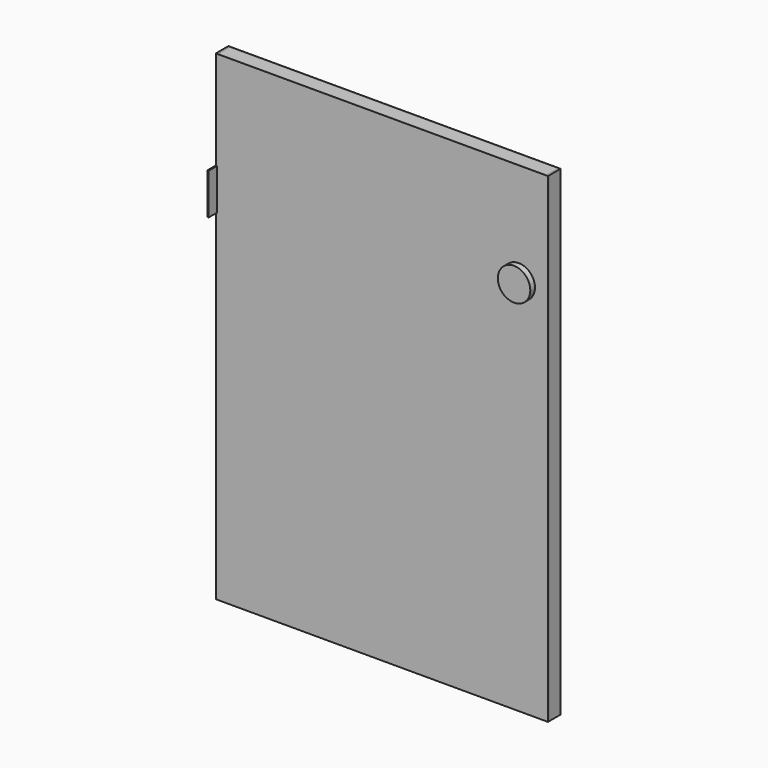
from build123d import *

# Parameters (mm, degrees)
F0_W      = 909
F0_H      = 1315
F1_DEPTH  = 43.25
F2_DEPTH  = 2.81
F3_DEPTH  = 2.81
F5_DEPTH  = 43.251
F6_W      = 3.3626373626
F6_H      = 112.7066911446
F7_DEPTH  = 43.251
F8_R      = 44.43
F9_DEPTH  = 16
F10_R     = 44.43
F11_DEPTH = 16
F12_W     = 3.3626373626
F12_H     = 112.7066911446
F13_DEPTH = 28.82
F14_W     = 5
F14_H     = 37.63
F15_DEPTH = 1315


with BuildPart() as f1:
    # F0 (on Front) → F1 (new body)
    with BuildSketch(Plane.XZ):
        Rectangle(F0_W, F0_H)
    extrude(amount=F1_DEPTH)


with BuildPart() as f2:
    # F2 (new): a face of the model
    f2_faces = [f1.part.faces().sort_by_distance(p)[0] for p in [
        (0, -43.25, 0),
    ]]
    extrude(f2_faces, amount=-F2_DEPTH)


with BuildPart() as f3:
    # F3 (new): a face of the model
    f3_faces = [f1.part.faces().sort_by_distance(p)[0] for p in [
        (0, 0, 0),
    ]]
    extrude(f3_faces, amount=-F3_DEPTH)


with BuildPart() as f5_tool:
    # F4 (on face) → F5 (new body, through all)
    with BuildSketch(Plane.XZ.offset(43.25)):
        with BuildLine():
            ThreePointArc((418.93, 377.5), (415.9698036577, 393.4461683357), (407.4836671352, 407.2674755784))
            Line((407.4836671352, 407.2674755784), (407.4836671352, 377.5))
            Line((407.4836671352, 377.5), (418.93, 377.5))
        make_face()
        with BuildLine():
            Line((407.4836671352, 377.5), (407.4836671352, 407.2674755784))
            ThreePointArc((407.4836671352, 407.2674755784), (333.0301963423, 361.5538316643), (418.93, 377.5))
            Line((418.93, 377.5), (407.4836671352, 377.5))
        make_face()
    extrude(amount=-F5_DEPTH)


with BuildPart() as f1_1:
    add(f1.part)

    # F5: cut by f5_tool
    add(f5_tool.part, mode=Mode.SUBTRACT)


with BuildPart() as f2_1:
    add(f2.part)

    # F5: cut by f5_tool
    add(f5_tool.part, mode=Mode.SUBTRACT)


with BuildPart() as f3_1:
    add(f3.part)

    # F5: cut by f5_tool
    add(f5_tool.part, mode=Mode.SUBTRACT)


with BuildPart() as f7_tool:
    # F6 (on face) → F7 (new body, through all)
    with BuildSketch(Plane(origin=(0, 0, 0), x_dir=(-1, 0, 0), z_dir=(0, 1, 0))):
        with Locations((452.8186813187, 331.1466544277)):
            Rectangle(F6_W, F6_H)
    extrude(amount=-F7_DEPTH)


with BuildPart() as f1_2:
    add(f1_1.part)

    # F7: cut by f7_tool
    add(f7_tool.part, mode=Mode.SUBTRACT)


with BuildPart() as f2_2:
    add(f2_1.part)

    # F7: cut by f7_tool
    add(f7_tool.part, mode=Mode.SUBTRACT)


with BuildPart() as f3_2:
    add(f3_1.part)

    # F7: cut by f7_tool
    add(f7_tool.part, mode=Mode.SUBTRACT)


with BuildPart() as f9:
    # F8 (on face) → F9 (new body)
    with BuildSketch(Plane.XZ.offset(43.25)):
        with Locations((374.5, 377.5)):
            Circle(F8_R)
    extrude(amount=F9_DEPTH)


with BuildPart() as f11:
    # F10 (on face) → F11 (new body)
    with BuildSketch(Plane(origin=(0, 0, 0), x_dir=(-1, 0, 0), z_dir=(0, 1, 0))):
        with Locations((-374.5, 377.5)):
            Circle(F10_R)
    extrude(amount=F11_DEPTH)


with BuildPart() as f13:
    # F12 (on face) → F13 (new body)
    with BuildSketch(Plane.XZ.offset(43.25)):
        with Locations((-452.8186813187, 331.1466544277)):
            Rectangle(F12_W, F12_H)
    extrude(amount=F13_DEPTH)


with BuildPart() as f15:
    # F14 (on face) → F15 (new body)
    with BuildSketch(Plane.XY.offset(657.5)):
        with Locations((-452, -21.625)):
            Rectangle(F14_W, F14_H)
    extrude(amount=-F15_DEPTH)


with BuildPart() as f15b:
    # F14 (on face) → F15, piece 2 (new body)
    with BuildSketch(Plane.XY.offset(657.5)):
        with Locations((452, -21.625)):
            Rectangle(F14_W, F14_H)
    extrude(amount=-F15_DEPTH)


solid = Compound([f1_2.part, f2_2.part, f3_2.part, f9.part, f11.part, f13.part, f15.part, f15b.part])
